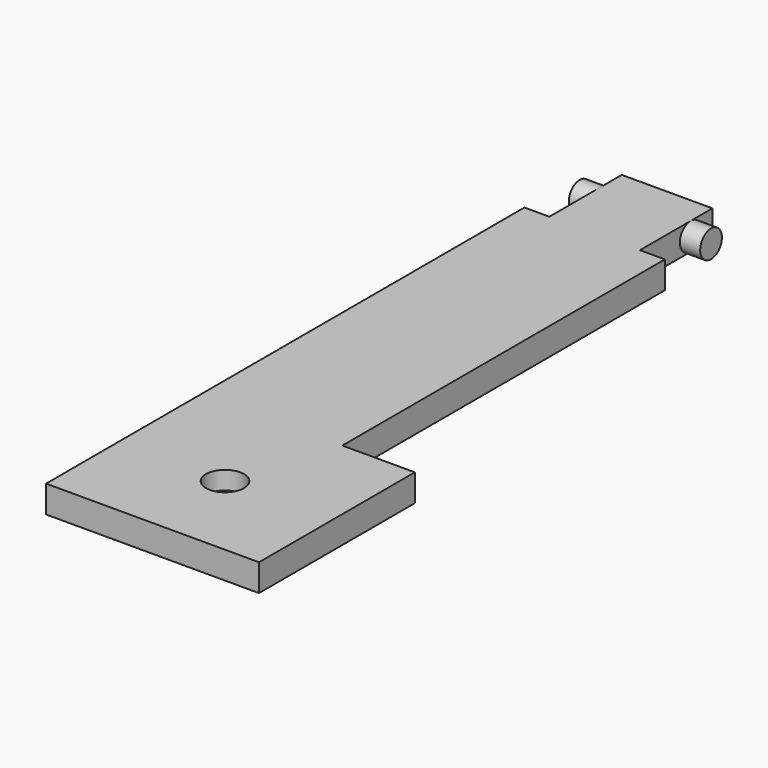
from build123d import *

# Parameters (mm, degrees)
PAD_DEPTH    = 3
SKETCH001_R  = 1.5
PAD001_DEPTH = 7.25
SKETCH002_R  = 2.1
POCKET_DEPTH = 2


with BuildPart() as part:
    # Sketch → Pad (new body)
    with BuildSketch(Plane.XY):
        Polygon((-7.75, 33), (-7.75, -33), (15.75, -33), (15.75, -11.5), (7.75, -11.5), (7.75, 33), (5, 33), (5, 43), (-5, 43), (-5, 33), align=None)
    extrude(amount=PAD_DEPTH)

    # Sketch001 → Pad001 (join, symmetric)
    with BuildSketch(Plane.YZ):
        with Locations((40, 1.5)):
            Circle(SKETCH001_R)
    extrude(amount=PAD001_DEPTH, both=True)

    # Sketch002 (on Face5 of Pad001) → Pocket (cut)
    with BuildSketch(Plane.XY.offset(3)):
        with Locations((4, -23)):
            Circle(SKETCH002_R)
    extrude(amount=-POCKET_DEPTH, mode=Mode.SUBTRACT)


solid = part.part
